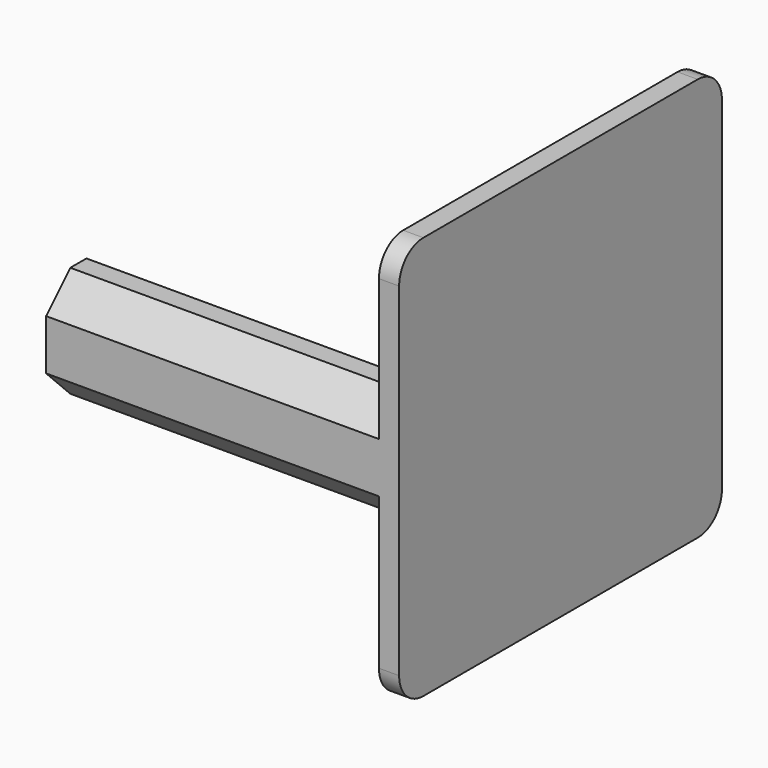
from build123d import *

# Parameters (mm, degrees)
PAD_DEPTH    = 11
CHAMFER_SIZE = 3
FILLET_R     = 2
SKETCH001_W  = 39.802324
SKETCH001_H  = 56.00523
POCKET_DEPTH = 50
SKETCH002_W  = 40
SKETCH002_H  = 40
PAD001_DEPTH = 2
FILLET001_R  = 3


with BuildPart() as part:
    # Sketch → Pad (new body)
    with BuildSketch(Plane.XY):
        Polygon((-22.800474, -3.599016), (-22.800474, -8.599016), (10.199526, -8.599016), (10.199526, 18.400984), (28.199526, 18.400984), (28.199526, -8.599016), (31.199526, -8.599016), (31.199526, 21.400984), (7.199526, 21.400984), (7.199526, -3.599016), align=None)
    extrude(amount=PAD_DEPTH)

    # Chamfer
    chamfer_edges = [part.edges().sort_by_distance(p)[0] for p in [
        (-6.300474, -8.599016, 0),
        (-6.300474, -8.599016, 11),
    ]]
    chamfer(chamfer_edges, length=CHAMFER_SIZE)

    # Fillet
    fillet_edges = [part.edges().sort_by_distance(p)[0] for p in [
        (31.199526, 21.400984, 5.5),
        (7.199526, 21.400984, 5.5),
    ]]
    fillet(fillet_edges, radius=FILLET_R)

    # Sketch001 (on Face14 of Fillet) → Pocket (cut)
    with BuildSketch(Plane.XY.offset(11)):
        with Locations((30.100688, 5.3986)):
            Rectangle(SKETCH001_W, SKETCH001_H)
    extrude(amount=-POCKET_DEPTH, mode=Mode.SUBTRACT)

    # Sketch002 (on Face5 of Pocket) → Pad001 (join)
    with BuildSketch(Plane.YZ.offset(10.199526)):
        with Locations((11.400984, 5)):
            Rectangle(SKETCH002_W, SKETCH002_H)
    extrude(amount=PAD001_DEPTH)

    # Fillet001
    fillet001_edges = [part.edges().sort_by_distance(p)[0] for p in [
        (11.199526, 31.400984, 25),
        (11.199526, 31.400984, -15),
        (11.199526, -8.599016, -15),
        (11.199526, -8.599016, 25),
    ]]
    fillet(fillet001_edges, radius=FILLET001_R)


solid = part.part
